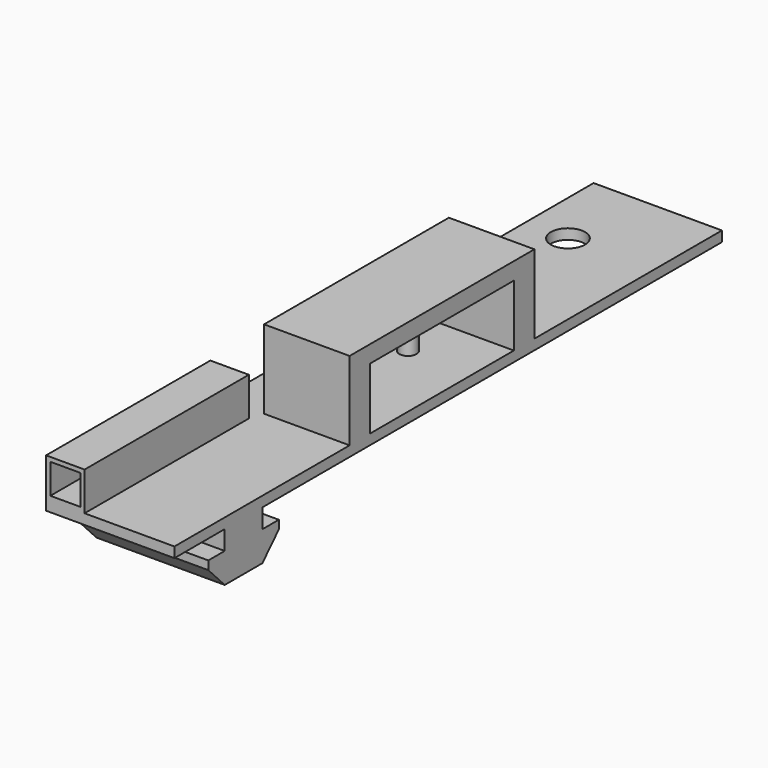
from build123d import *

# Parameters (mm, degrees)
PAD_DEPTH     = 15
SKETCH001_R   = 2
POCKET_DEPTH  = 6.951
SKETCH003_R   = 1
PAD001_DEPTH  = 9
SKETCH004_W   = 4.5
SKETCH004_H   = 4.5
SKETCH004_W_2 = 3.5
SKETCH004_H_2 = 3.5
PAD002_DEPTH  = 24
SKETCH008_W   = 3
SKETCH008_H   = 10
PAD005_DEPTH  = 7.2
SKETCH009_W   = 27
SKETCH009_H   = 10
PAD006_DEPTH  = 2


with BuildPart() as part:
    # Sketch → Pad (new body)
    with BuildSketch(Plane.YZ):
        Polygon((0, 0), (7.355, 0), (7.355, -2.25), (4.955, -2.25), (4.955, -3.25), (7.355, -5.75), (12.855, -5.75), (15.255, -3.25), (15.255, -2.25), (12.855, -2.25), (12.855, 0), (80, 0), (80, 1.2), (0, 1.2), align=None)
    extrude(amount=PAD_DEPTH)

    # Sketch001 (on Face13 of Pad) → Pocket (cut, through all)
    with BuildSketch(Plane(origin=(0, 0, 1.2), x_dir=(0, -1, 0), z_dir=(0, 0, 1))):
        with Locations((-70, 5)):
            Circle(SKETCH001_R)
    extrude(amount=-POCKET_DEPTH, mode=Mode.SUBTRACT)

    # Sketch003 (on Face6 of Pocket) → Pad001 (join)
    with BuildSketch(Plane(origin=(0, 0, 1.2), x_dir=(0, -1, 0), z_dir=(0, 0, 1))):
        with Locations((-43.5, 7.5)):
            Circle(SKETCH003_R)
        with Locations((-34, 7.5)):
            Circle(SKETCH003_R)
    extrude(amount=PAD001_DEPTH)

    # Sketch004 → Pad002 (join)
    with BuildSketch(Plane.XZ):
        with Locations((2.25, 3.45)):
            Rectangle(SKETCH004_W, SKETCH004_H)
        with Locations((2.25, 3.45)):
            Rectangle(SKETCH004_W_2, SKETCH004_H_2, mode=Mode.SUBTRACT)
    extrude(amount=-PAD002_DEPTH)

    # Sketch008 (on Face6 of Pad002) → Pad005 (join)
    with BuildSketch(Plane(origin=(0, 0, 1.2), x_dir=(0, -1, 0), z_dir=(0, 0, 1))):
        with Locations((-51.1, 10)):
            Rectangle(SKETCH008_W, SKETCH008_H)
        with Locations((-27.1, 10)):
            Rectangle(SKETCH008_W, SKETCH008_H)
    extrude(amount=PAD005_DEPTH)

    # Sketch009 (on Face32 of Pad005) → Pad006 (join)
    with BuildSketch(Plane(origin=(0, 0, 8.4), x_dir=(0, -1, 0), z_dir=(0, 0, 1))):
        with Locations((-39.1, 10)):
            Rectangle(SKETCH009_W, SKETCH009_H)
    extrude(amount=PAD006_DEPTH)


solid = part.part
